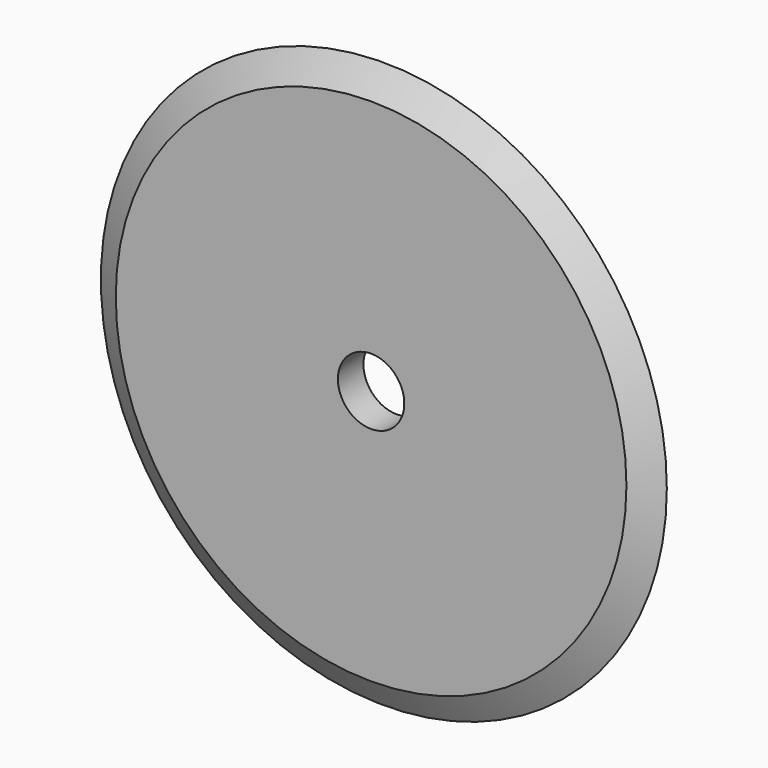
from build123d import *

# Parameters (mm, degrees)
F0_R     = 50.8
F1_DEPTH = 6.35
F2_D     = 13.208


with BuildPart() as f1:
    # F0 (on Front) → F1 (new body)
    with BuildSketch(Plane.XZ):
        Circle(F0_R)
    extrude(amount=F1_DEPTH)

    # F2 (through all)
    with Locations(Plane(origin=(0, 0, 0), x_dir=(1, 0, 0), z_dir=(0, 1, 0))):
        with Locations((0, 0)):
            Hole(F2_D / 2)

    # F3 (on Top) → F4 (revolve)
    with BuildSketch(Plane.XY):
        Polygon((50.8, 0), (50.8, -6.35), (56.299261, -3.175), align=None)
    revolve(axis=Axis((0, -6.35, 0), (0, -1, 0)))


solid = f1.part
